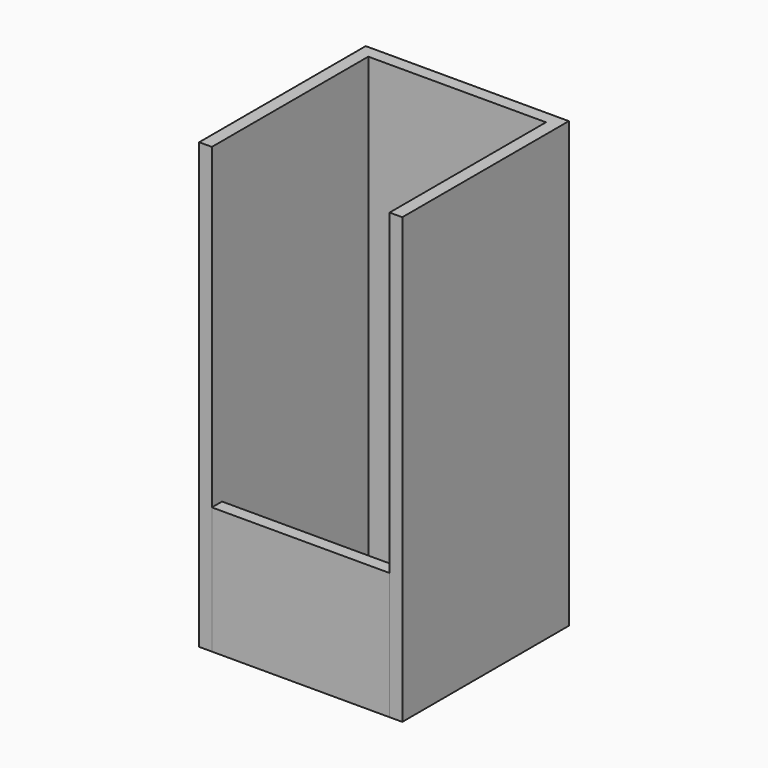
from build123d import *

# Parameters (mm, degrees)
F0_W     = 88.9
F0_H     = 6.350001
F1_DEPTH = 63.5
F2_DEPTH = 222.25


with BuildPart() as f1:
    # F0 (on Top) → F1 (new body)
    with BuildSketch(Plane.XY):
        with Locations((-1.781045, -36.954149)):
            Rectangle(F0_W, F0_H)
    extrude(amount=F1_DEPTH)

    # F0 (on Top) → F2 (join)
    with BuildSketch(Plane.XY):
        Polygon((-46.231045, -33.779149), (-46.231045, 57.660851), (42.668955, 57.660851), (42.668955, -33.779149), (42.668955, -40.12915), (49.018957, -40.12915), (49.018957, 64.010852), (-52.581046, 64.010852), (-52.581046, -40.12915), (-46.231045, -40.12915), align=None)
    extrude(amount=F2_DEPTH)


solid = f1.part
